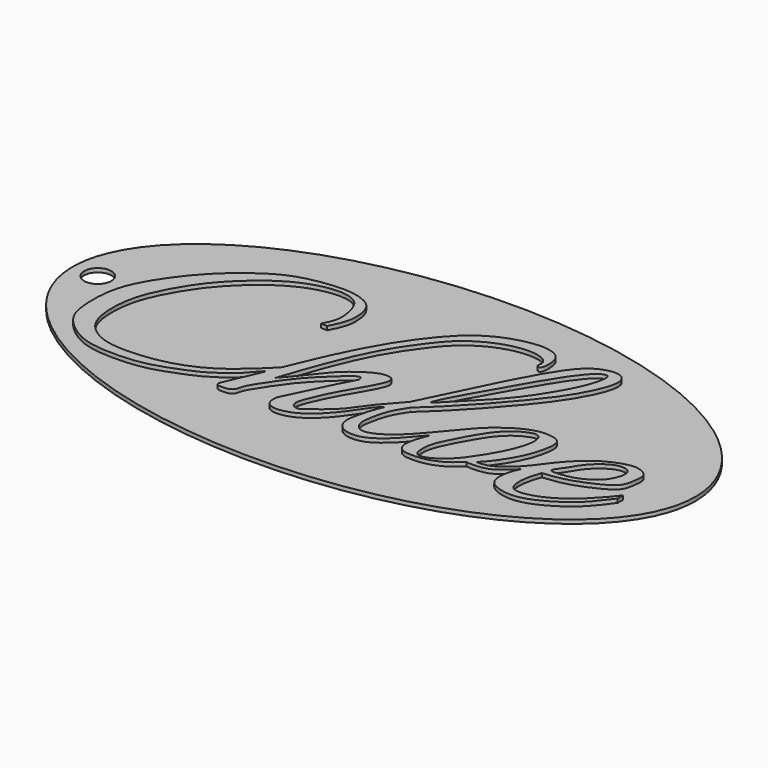
from build123d import *

# Parameters (mm, degrees)
F1_DEPTH = 2
F3_DEPTH = 1
F4_R     = 3.5
F5_DEPTH = 25


with BuildPart() as f1:
    # F0 (on Top) → F1 (new body)
    with BuildSketch(Plane.XY):
        with BuildLine():
            add(Edge.make_bspline(
                [(-24.6782321483, 10.46460215), (-24.1137331588, 11.5346431084), (-22.9615588993, 13.7186570249), (-23.2804744754, 17.6469560868), (-24.5128404657, 21.8395299303), (-28.1437846526, 23.9228734344), (-34.6352115794, 23.7198873849), (-43.1602894595, 20.2908623675), (-51.7397652282, 12.7184917878), (-56.7872314087, 5.8480311684), (-61.0982955562, -2.5301911781), (-62.2360295109, -9.7538407794), (-61.4856924158, -17.9958839624), (-55.5500835222, -22.8030426121), (-47.8965082691, -23.7108122908), (-37.3800328016, -22.5181160766), (-27.4452341198, -17.9548688537), (-21.847453638, -12.4160772722), (-18.9831778407, -9.5819849521)],
                knots=[0, 0, 0, 0, 0.0434560735, 0.0886962958, 0.1354962373, 0.1798919912, 0.2368986319, 0.3067776693, 0.3840978166, 0.451899245, 0.5213039614, 0.5838129264, 0.6478095409, 0.7079987181, 0.7709803348, 0.8452966071, 0.9208412717, 1, 1, 1, 1], degree=3))
            add(Edge.make_bspline(
                [(-24.6782321483, 10.46460215), (-24.1401990255, 10.4443421587), (-23.6021659027, 10.4240821674), (-23.0641327798, 10.4038221762)],
                knots=[0, 0, 0, 0, 1.615243318, 1.615243318, 1.615243318, 1.615243318], degree=3))
            add(Edge.make_bspline(
                [(8.2958266139, -9.8563199863), (7.7008613938, -10.4021992115), (6.2550492664, -11.7287285234), (3.3334546305, -16.5582617438), (-0.6683908764, -21.1212344042), (-4.5505102873, -23.7305211462), (-8.495396774, -24.6370788161), (-11.1720123483, -23.8203829299), (-11.8078806704, -20.8498184366), (-10.4565841369, -18.3389877956), (-4.1025541271, -4.8814037462), (-3.181334856, -3.8788672838), (-3.7191802187, -2.5669322515), (-5.2429305879, -3.4012088638), (-7.208625153, -5.0272696195), (-13.1315828882, -10.6481188892), (-16.5736845108, -15.6706312817), (-19.8703211933, -20.5881888362), (-20.0094486449, -22.3472790802), (-20.8402941011, -23.5801021342), (-22.5226946368, -23.7275991318), (-24.3460800732, -23.7500774823), (-24.6845507558, -22.7229504471), (-23.3393223418, -20.1479594125), (-21.7181354937, -15.8174551803), (-19.6750523303, -11.9294253601), (-22.3834210558, -14.8085690563), (-23.9293104262, -16.9386772995), (-29.3424457616, -20.8916549775), (-33.9314999901, -22.837009547), (-39.7735811844, -25.051921436), (-45.50284445, -26.1180484974), (-55.1349314428, -26.1156177894), (-61.154353439, -23.3960394717), (-65.9283191126, -18.9005930407), (-67.3103421865, -13.913783207), (-67.3660529787, -5.007411452), (-64.3884499919, 2.6213190909), (-57.4096154843, 12.4287975981), (-49.5881883865, 19.0927095779), (-42.9265151246, 23.2527795091), (-35.0914311697, 24.9691887542), (-27.8725858622, 25.3227645231), (-23.3893530144, 23.4637112832), (-21.9789216427, 21.8638260201), (-21.0713977187, 19.6288981169), (-21.011119439, 17.7237280027), (-20.8297177639, 15.5339940933), (-22.1749082137, 11.9167072298), (-22.8210946543, 10.8879257203), (-23.0641327798, 10.4038221762)],
                knots=[0, 0, 0, 0, 0.016432591, 0.0404290592, 0.065663124, 0.0874933931, 0.1075178575, 0.1233121036, 0.1388909869, 0.1573422049, 0.1961462975, 0.207840058, 0.2174163019, 0.2288931312, 0.2453730334, 0.2739618961, 0.3003098138, 0.3242152999, 0.3372622854, 0.3485668351, 0.3617421123, 0.3748174772, 0.3834643855, 0.4000739799, 0.4237028507, 0.4400188063, 0.4552098252, 0.4731538143, 0.4987136877, 0.5219448193, 0.546647567, 0.5714798421, 0.6025138419, 0.6286787131, 0.6536474968, 0.6764085785, 0.7059866349, 0.7351400547, 0.7701176244, 0.8027050627, 0.8307592312, 0.8593061051, 0.8866882478, 0.9082016339, 0.9226427749, 0.9379976941, 0.9518114358, 0.9669025442, 0.9865800739, 1, 1, 1, 1], degree=3))
            add(Edge.make_bspline(
                [(23.169990629, -13.9102255926), (22.7251560941, -14.4355119943), (21.5945419025, -15.770606763), (18.0714123888, -19.9441142441), (13.6444614624, -23.2502213148), (10.1402564585, -23.5947087157), (7.513139914, -22.991142172), (5.4260006655, -20.4844961456), (6.0074034451, -16.5477842463), (7.1876246132, -12.3875308283), (7.9574451326, -10.6292069453), (8.2958266139, -9.8563199863)],
                knots=[0, 0, 0, 0, 0.0893593899, 0.227120393, 0.3656047556, 0.4725758631, 0.5660831396, 0.6651609496, 0.7804998652, 0.9035167563, 1, 1, 1, 1], degree=3))
            add(Edge.make_bspline(
                [(36.1956246197, -18.5387991369), (35.6486291862, -19.0375741461), (34.4795072993, -20.1036320034), (32.0265843039, -21.7751636815), (28.5184138477, -23.0099778656), (25.1334797422, -23.0884542093), (22.6657071042, -22.8151462504), (21.3479167629, -20.7837756897), (21.6248651767, -18.20900393), (22.6632747851, -15.2595017688), (23.0251729683, -14.2958441237), (23.169990629, -13.9102255926)],
                knots=[0, 0, 0, 0, 0.1038950479, 0.222060308, 0.3549820065, 0.4823477502, 0.5869164997, 0.6859477554, 0.7968201462, 0.9186952781, 1, 1, 1, 1], degree=3))
            add(Edge.make_bspline(
                [(46.8269325793, -13.9102255926), (46.4877446882, -14.2968820821), (45.7158599212, -15.1767904223), (43.5952564275, -16.9413350001), (41.3220667136, -18.4913089335), (37.3739127751, -18.6768719268), (36.5028644248, -18.5748017538), (36.1956246197, -18.5387991369)],
                knots=[0, 0, 0, 0, 0.1682557587, 0.3828970918, 0.6052520685, 0.8607628641, 1, 1, 1, 1], degree=3))
            add(Edge.make_bspline(
                [(70.0225159526, -11.8942316622), (69.6467252721, -12.4121390135), (68.7641678351, -13.6284623773), (66.378099706, -16.6694584649), (63.9484780841, -18.9253759595), (60.7393636292, -21.1773711146), (56.5772595716, -23.3359583175), (52.3862631224, -24.4188770325), (47.8760480562, -23.5959535413), (44.9841199825, -21.3715535834), (45.5344341224, -16.4343485947), (46.4304560127, -14.6845055278), (46.8269325793, -13.9102255926)],
                knots=[0, 0, 0, 0, 0.0756336784, 0.1776283149, 0.2734477176, 0.3761539504, 0.4890341287, 0.5975658296, 0.7072758727, 0.8008663926, 0.9118862945, 1, 1, 1, 1], degree=3))
            add(Edge.make_bspline(
                [(70.0225159526, -10.1223466918), (70.0225159526, -10.7129750152), (70.0225159526, -11.3036033387), (70.0225159526, -11.8942316622)],
                knots=[0, 0, 0, 0, 1.7718849704, 1.7718849704, 1.7718849704, 1.7718849704], degree=3))
            add(Edge.make_bspline(
                [(51.0681085289, -12.7655323595), (50.6522868101, -13.9545879027), (49.8081171487, -16.3685181287), (49.7114001142, -20.873456494), (51.856803826, -22.5191706574), (56.8413591442, -21.5424901162), (61.0895546068, -19.1152599381), (64.2330189605, -16.7288485087), (68.3200009561, -12.3757456547), (69.5297213722, -10.7745951588), (70.0225159526, -10.1223466918)],
                knots=[0, 0, 0, 0, 0.1237296468, 0.2511865287, 0.3427439608, 0.4796134258, 0.6182934657, 0.7444927846, 0.8959159742, 1, 1, 1, 1], degree=3))
            add(Edge.make_bspline(
                [(37.6642011106, -17.2861162573), (38.0068919652, -17.3005220514), (38.8721634994, -17.33689572), (41.5750209232, -16.9058428342), (45.1836031758, -13.9259399376), (47.4651185681, -11.4572273837), (49.9468493624, -7.8644759235), (53.4242330759, -3.8926954296), (57.2394874228, -0.9470997514), (61.6290948283, 0.8613662472), (64.7773939521, 1.3557271048), (68.2021143327, -0.2283706801), (67.8781450398, -3.3070164199), (67.3762051757, -6.676462103), (64.5907010081, -8.8114160526), (59.0091637686, -11.3004718157), (54.9959089464, -12.3700406895), (52.3554849275, -12.635905956), (51.0681085289, -12.7655323595)],
                knots=[0, 0, 0, 0, 0.0345147201, 0.0871473644, 0.1570779332, 0.2172885908, 0.2845702143, 0.3594280812, 0.4312959772, 0.5012913504, 0.5593795496, 0.6169482542, 0.6708399396, 0.7293709448, 0.7887521113, 0.8690896703, 0.9361728012, 1, 1, 1, 1], degree=3))
            add(Edge.make_bspline(
                [(12.4551141635, -6.9769676775), (11.55940264, -8.3263800115), (9.7681606405, -11.0249319272), (8.7959771439, -15.9424522621), (8.4516891855, -18.7008405459), (10.6341577922, -21.8048781733), (15.5814302532, -19.8351173327), (20.2875967763, -15.684159809), (26.8377583014, -7.5778250092), (29.8709995165, -4.1675931468), (34.135809555, -0.8673395267), (38.3289656679, 1.0144929011), (41.2960809671, 1.3271999473), (45.5698885787, 0.559523784), (45.1756015906, -4.0921581501), (43.753651884, -8.9319463403), (40.1972060037, -14.7815119407), (38.4106236974, -16.5480627155), (37.6642011106, -17.2861162573)],
                knots=[0, 0, 0, 0, 0.0639465273, 0.1278801292, 0.1756597008, 0.2248903585, 0.2855816959, 0.3605647608, 0.4531488433, 0.5159440018, 0.5820071632, 0.6432970673, 0.6939484025, 0.7479590126, 0.8040145158, 0.8711124897, 0.9461516279, 1, 1, 1, 1], degree=3))
            add(Edge.make_bspline(
                [(10.7603454962, -5.1126764156), (13.1826441595, -0.0842045162), (18.0617409755, 10.0443570874), (26.429353981, 26.3778899661), (31.5781784827, 30.3963611358), (36.6042294962, 31.2753114159), (39.2008742161, 28.2981724038), (36.4713044948, 21.0531532279), (31.6506624811, 13.53813063), (22.868415825, 3.2554515476), (16.0023108078, -3.7744647275), (13.4745992228, -6.0565496016), (12.4551141635, -6.9769676775)],
                knots=[0, 0, 0, 0, 0.1421852777, 0.2863956235, 0.3713888947, 0.4425688654, 0.5006981535, 0.5903172084, 0.6946863422, 0.8209856587, 0.9277993394, 1, 1, 1, 1], degree=3))
            add(Edge.make_bspline(
                [(-17.0468613505, -13.9102255926), (-15.8347475732, -12.513010053), (-13.3584716757, -9.6585823342), (-9.6905812117, -4.6577367223), (-5.970613308, -1.4746337377), (-2.050271288, 0.8951295987), (0.469368939, 1.1387069494), (1.7893907101, 0.4417944464), (1.9819261283, -1.4625508155), (-1.199567507, -6.9655246661), (-3.8753095608, -11.4714410154), (-6.2174069351, -16.5674335663), (-7.5966507212, -20.5436617028), (-5.2169213831, -22.0069793907), (-2.9816786954, -20.1866283986), (2.0231417812, -16.491653031), (5.2832127585, -11.1223473594), (8.8621090709, -7.1954771868), (10.7603454962, -5.1126764156)],
                knots=[0, 0, 0, 0, 0.0718441283, 0.146773254, 0.2143339789, 0.2784665386, 0.3250340613, 0.3582766369, 0.3957796314, 0.4708387266, 0.5426467291, 0.6150250387, 0.6731270582, 0.7143141865, 0.7625379518, 0.8374386967, 0.9137779471, 1, 1, 1, 1], degree=3))
            add(Edge.make_bspline(
                [(-18.9831778407, -9.5819849521), (-17.6578417593, -6.3884811623), (-15.0067213963, -0.0003936089), (-10.3564657963, 9.4418464095), (-5.3162749852, 17.3294686655), (1.3609242473, 25.4028082646), (8.8778078402, 29.4606326346), (16.7902667461, 31.0324079553), (20.9601453949, 29.6392370347), (22.5556634206, 27.3689770737), (22.5270473537, 22.4488681972), (20.5967829849, 23.409936448), (21.5192117206, 24.8291914906), (19.6235674654, 27.062159489), (14.6067206167, 27.6589140988), (8.3073520209, 26.1417769328), (1.7305962266, 22.374204716), (-2.9717096094, 16.5859999564), (-8.3179948766, 8.7672437702), (-13.0264452923, -2.1062447044), (-15.6940710691, -9.9384200888), (-17.0468613505, -13.9102255926)],
                knots=[0, 0, 0, 0, 0.0672645616, 0.1345518706, 0.1986978824, 0.2653844671, 0.3265502615, 0.3849819961, 0.4262734549, 0.4612194424, 0.5023009396, 0.5228548942, 0.5462246789, 0.5781519464, 0.6240362511, 0.6773522661, 0.7340442152, 0.7904930792, 0.8543147585, 0.9261209797, 1, 1, 1, 1], degree=3))
        make_face()
        with BuildLine():
            add(Edge.make_bspline(
                [(25.5619138479, -20.1160795987), (25.4906229162, -19.2640659644), (25.5469145931, -17.3148023208), (27.2259610989, -13.364497519), (29.7152009259, -8.7753838186), (32.5183897818, -4.2933592685), (35.5782292258, -1.657123313), (37.9741530347, -0.5411803404), (39.5182253973, -0.0565840382), (40.9751359995, -0.7605919241), (41.4243172834, -3.1861795248), (40.2836384954, -7.7437511172), (37.2425076435, -13.5855167221), (33.5384115173, -18.7941606663), (30.563707272, -21.1056670032), (28.0279287596, -22.3818563342), (25.8717688097, -22.2132765254), (25.6217740935, -20.8314825834), (25.5619138479, -20.1160795987)],
                knots=[0, 0, 0, 0, 0.0558043719, 0.1257145929, 0.2046277681, 0.2833024255, 0.3514006863, 0.4061868467, 0.4481064714, 0.48732827, 0.5374311476, 0.6106778217, 0.6997012431, 0.7858756063, 0.8516184331, 0.908298314, 0.9531432214, 1, 1, 1, 1], degree=3))
        make_face(mode=Mode.SUBTRACT)
        with BuildLine():
            add(Edge.make_bspline(
                [(51.9009642303, -10.6458580121), (51.5900053115, -10.225257037), (53.4482026172, -8.207682019), (54.8853774044, -5.1768174299), (57.722532858, -2.1796109383), (60.8173050862, -0.5196815733), (62.9491824473, -0.4642367912), (64.384639681, -1.2103625873), (64.7285924721, -3.0771585443), (63.9007757458, -5.3231916359), (62.6657385941, -7.4980624833), (59.7372519704, -9.398972744), (57.1531519076, -10.5907129763), (52.3294667711, -11.2254477123), (51.9009642303, -10.6458580121)],
                knots=[0, 0, 0, 0, 0.07810029, 0.1738698416, 0.2734781375, 0.3652675007, 0.4353316212, 0.4939161107, 0.5580871015, 0.6338580019, 0.7119279283, 0.8006348352, 0.8923775113, 1, 1, 1, 1], degree=3))
        make_face(mode=Mode.SUBTRACT)
        with BuildLine():
            add(Edge.make_bspline(
                [(14.1949746758, -2.5434747804), (14.1253982207, -1.1025522743), (28.215522744, 23.2658240526), (29.5129528107, 24.3565160527), (32.0898717528, 28.0559237842), (34.6918227937, 29.1708806522), (35.4473759948, 27.9603561423), (34.7228685512, 24.3796667105), (32.6827372827, 19.667822863), (29.5954102646, 14.4999213011), (25.4033862401, 8.4046615239), (20.1981379588, 3.19951373), (16.3287479398, -0.719952403), (14.2134010914, -2.9250842909), (14.1949746758, -2.5434747804)],
                knots=[0, 0, 0, 0, 0.1924853777, 0.2577849229, 0.3305087875, 0.3869333534, 0.4216898109, 0.4887511069, 0.5719829585, 0.6609827095, 0.7596541252, 0.8583419605, 0.9490227611, 1, 1, 1, 1], degree=3))
        make_face(mode=Mode.SUBTRACT)
    extrude(amount=F1_DEPTH)

    # F2 (on Top) → F3 (join)
    with BuildSketch(Plane.XY):
        with BuildLine():
            add(Edge.make_bspline(
                [(80.6370079517, 0), (80.6370079517, 73.6725244671), (-40.3185039759, 36.8362622336), (-161.2740159035, 0), (-40.3185039759, -36.8362622336), (80.6370079517, -73.6725244671), (80.6370079517, 0)],
                knots=[0, 0, 0, 2.0943951024, 2.0943951024, 4.1887902048, 4.1887902048, 6.2831853072, 6.2831853072, 6.2831853072], degree=2, weights=[1, 0.5, 1, 0.5, 1, 0.5, 1]))
        make_face()
    extrude(amount=F3_DEPTH)

    # F4 (on face) → F5 (cut)
    with BuildSketch(Plane.XY.offset(1)):
        with Locations((-74.1332322359, 0)):
            Circle(F4_R)
    extrude(amount=-F5_DEPTH, mode=Mode.SUBTRACT)


solid = f1.part
